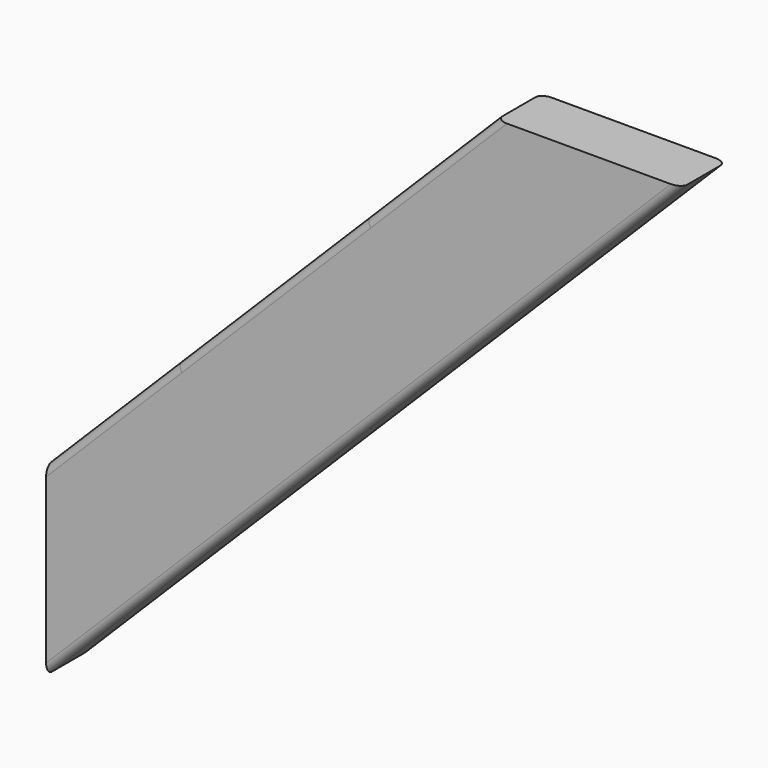
from build123d import *

# Parameters (mm, degrees)
F1_DEPTH = 38.1
F2_R     = 5.08


with BuildPart() as f1:
    # F0 (on Front) → F1 (new body)
    with BuildSketch(Plane.XZ):
        Polygon((-187.035909, -48.884603), (-187.035909, -174.608188), (244.764091, 257.191812), (119.040505, 257.191812), (30.140505, 168.291812), (-98.135909, 40.015397), align=None)
    extrude(amount=F1_DEPTH)

    # F2
    f2_edges = [f1.edges().sort_by_distance(p)[0] for p in [
        (-33.997702, 0, 104.153604),
        (-33.997702, -38.1, 104.153604),
        (28.864091, -38.1, 41.291812),
        (28.864091, 0, 41.291812),
    ]]
    fillet(f2_edges, radius=F2_R)


solid = f1.part
